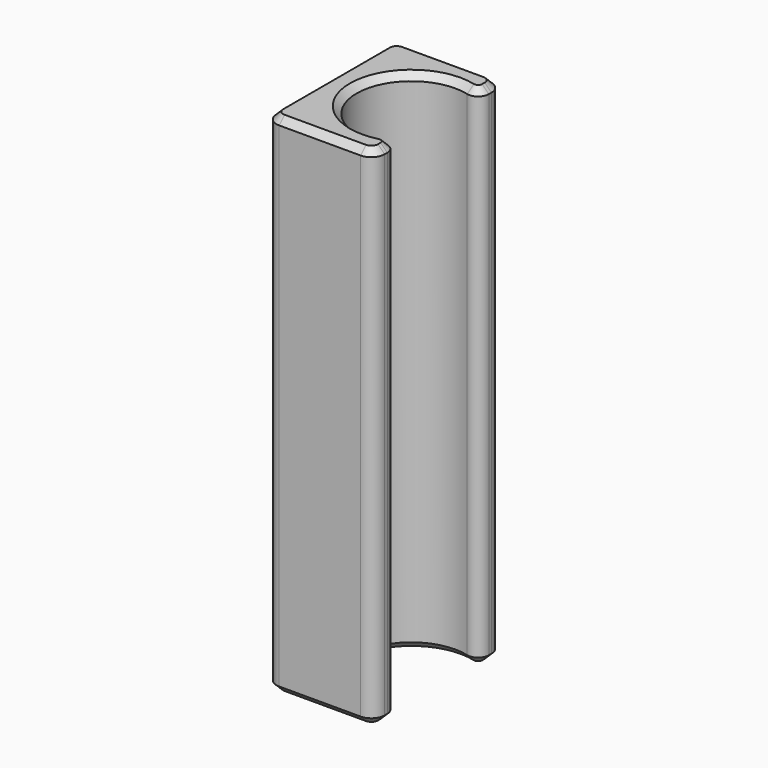
from build123d import *

# Parameters (mm, degrees)
F1_DEPTH = 38
F2_R     = 0.8
F3_R     = 1
F4_SIZE  = 0.5


with BuildPart() as f1:
    # F0 (on Top) → F1 (new body)
    with BuildSketch(Plane.XY):
        with BuildLine():
            Line((-4.05, -6), (4.05, -6))
            Line((4.05, -6), (4.05, -3.579106))
            ThreePointArc((4.05, -3.579106), (-2.05, 0), (4.05, 3.579106))
            Line((4.05, 3.579106), (4.05, 6))
            Line((4.05, 6), (-4.05, 6))
            Line((-4.05, 6), (-4.05, -6))
        make_face()
    extrude(amount=F1_DEPTH)

    # F2
    f2_edges = [f1.edges().sort_by_distance(p)[0] for p in [
        (4.05, 3.579106, 19),
        (4.05, -3.579106, 19),
    ]]
    fillet(f2_edges, radius=F2_R)

    # F3
    f3_edges = [f1.edges().sort_by_distance(p)[0] for p in [
        (4.05, 6, 19),
        (4.05, -6, 19),
        (-4.05, -6, 19),
        (-4.05, 6, 19),
    ]]
    fillet(f3_edges, radius=F3_R)

    # F4
    f4_edges = [f1.edges().sort_by_distance(p)[0] for p in [
        (-2.05, 0, 38),
        (-2.05, 0, 0),
    ]]
    chamfer(f4_edges, length=F4_SIZE)


solid = f1.part
